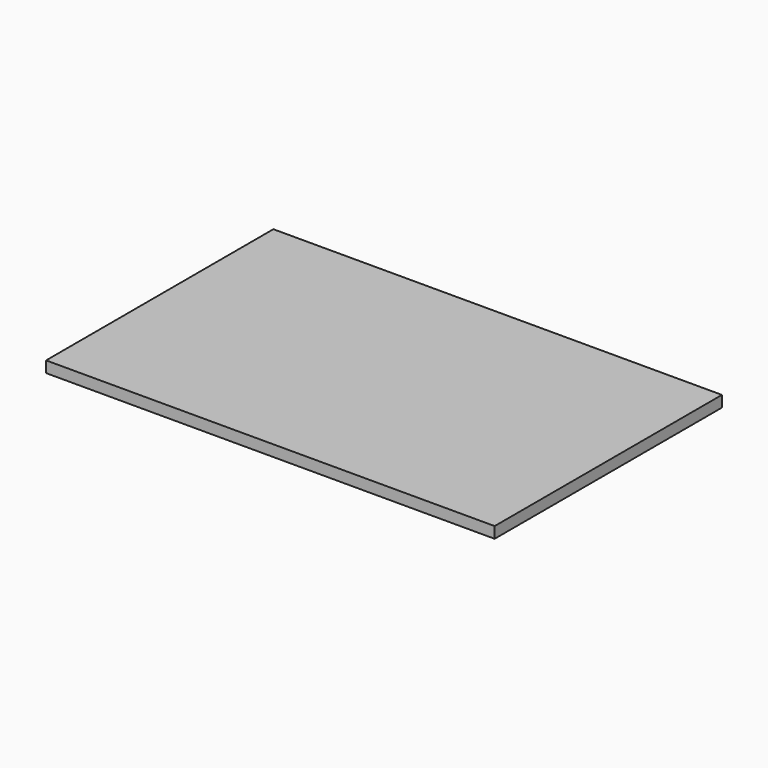
from build123d import *

# Parameters (mm, degrees)
SKETCH_W  = 600
SKETCH_H  = 380
PAD_DEPTH = 15


with BuildPart() as part:
    # Sketch → Pad (new body)
    with BuildSketch(Plane.XY):
        with Locations((300, 190)):
            Rectangle(SKETCH_W, SKETCH_H)
    extrude(amount=PAD_DEPTH)


solid = part.part
